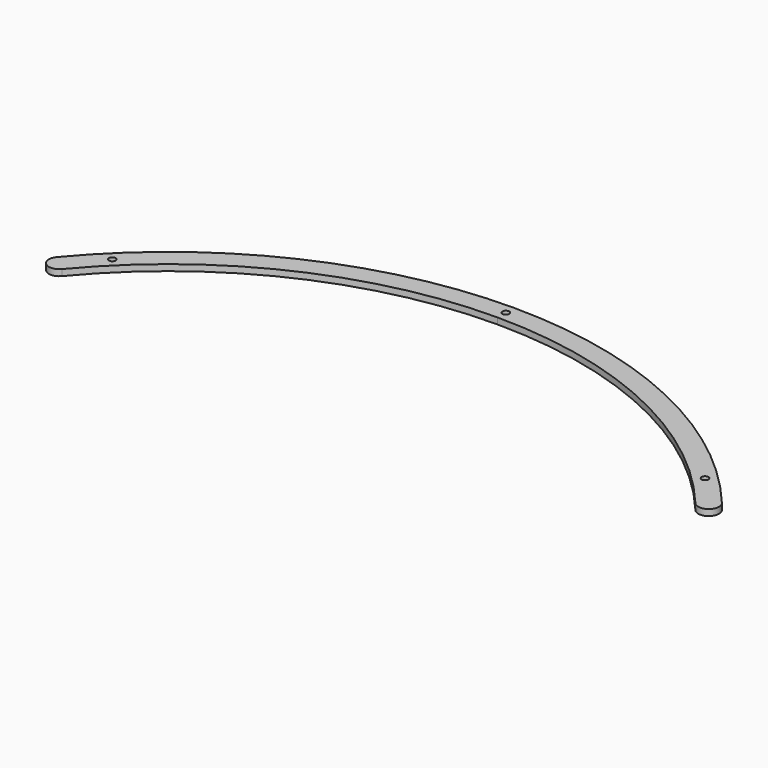
from build123d import *

# Parameters (mm, degrees)
PAD014_DEPTH                        = 3
SKETCH055_R                         = 1.65
POCKET019_DEPTH                     = 364.282338
POCKET019_DEPTH_BACK                = 367.282338
BODY001003005003003_PLACEMENT_ANGLE = 60
CLONE020_PLACEMENT_ANGLE            = 60


with BuildPart() as part:
    # Sketch052 → Pad014 (new body)
    with BuildSketch(Plane.XY):
        with BuildLine():
            ThreePointArc((152.959511, 127.101705), (84.480895, 180.040089), (0, 198.875477))
            Line((0, 198.875477), (0, 208.875477))
            ThreePointArc((160.650731, 133.492724), (88.728824, 189.092995), (0, 208.875477))
            ThreePointArc((152.959511, 127.101705), (160.000631, 126.451604), (160.650731, 133.492724))
        make_face()
    pad014 = extrude(amount=PAD014_DEPTH)

    # Sketch055 → Pocket019 (cut, two sides)
    with BuildSketch(Plane.XY) as pocket019_sk:
        with Locations((143.11, 145.205847)):
            Circle(SKETCH055_R)
        with BuildLine():
            Line((0, 202.225477), (0, 205.525477))
            ThreePointArc((0, 202.225477), (1.65, 203.875477), (0, 205.525477))
        make_face()
    pocket019 = extrude(amount=-POCKET019_DEPTH, mode=Mode.SUBTRACT) + extrude(pocket019_sk.sketch, amount=POCKET019_DEPTH_BACK, mode=Mode.SUBTRACT)

    # Mirrored019: Pad014, Pocket019 across Sketch052 V_Axis
    add(pad014.mirror(Plane(origin=(0, 0, 0), x_dir=(0, 0, 1), z_dir=(1, 0, 0))))
    add(pocket019.mirror(Plane(origin=(0, 0, 0), x_dir=(0, 0, 1), z_dir=(1, 0, 0))), mode=Mode.SUBTRACT)


with BuildPart() as part_1:
    # Body001003005003003 placement: moved
    add(part.part.rotate(Axis((0, 0, 0), (0, 0, 1)), BODY001003005003003_PLACEMENT_ANGLE))


with BuildPart() as part_2:
    # Clone020 placement: moved
    add(part_1.part.moved(Location((0, 17, 0))).rotate(Axis((0, 17, 0), (0, 0, -1)), CLONE020_PLACEMENT_ANGLE))


solid = part_2.part
